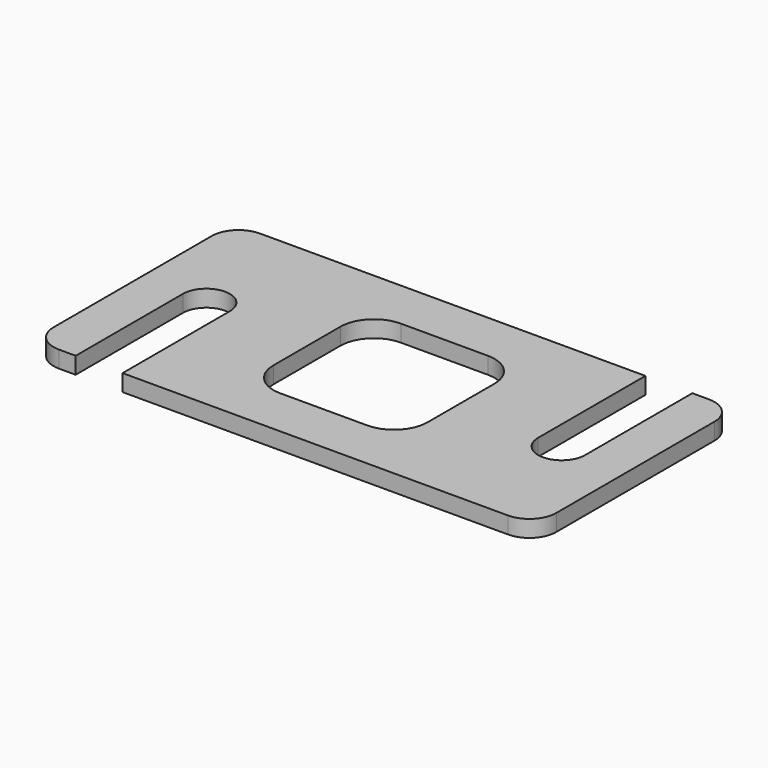
from build123d import *

# Parameters (mm, degrees)
F0_W     = 150
F0_H     = 75
F1_DEPTH = 5
F3_DEPTH = 5.001
F4_W     = 46
F4_H     = 45
F5_DEPTH = 5.001
F6_R     = 10
F7_R     = 8


with BuildPart() as f1:
    # F0 (on Top) → F1 (new body)
    with BuildSketch(Plane.XY):
        with Locations((75, 37.5)):
            Rectangle(F0_W, F0_H)
    extrude(amount=F1_DEPTH)

    # F2 (on face) → F3 (cut, through all)
    with BuildSketch(Plane.XY.offset(5)):
        with BuildLine():
            Line((13, 40), (13, 0))
            Line((13, 0), (27, 0))
            Line((27, 0), (27, 40))
            ThreePointArc((27, 40), (20, 47), (13, 40))
        make_face()
        with BuildLine():
            Line((123, 75), (123, 35))
            ThreePointArc((123, 35), (130, 28), (137, 35))
            Line((137, 35), (137, 75))
            Line((137, 75), (123, 75))
        make_face()
    extrude(amount=-F3_DEPTH, mode=Mode.SUBTRACT)

    # F4 (on face) → F5 (cut, through all)
    with BuildSketch(Plane.XY.offset(5)):
        with Locations((75, 37.5)):
            Rectangle(F4_W, F4_H)
    extrude(amount=-F5_DEPTH, mode=Mode.SUBTRACT)

    # F6
    f6_edges = [f1.edges().sort_by_distance(p)[0] for p in [
        (52, 60, 2.5),
        (98, 60, 2.5),
        (98, 15, 2.5),
        (52, 15, 2.5),
    ]]
    fillet(f6_edges, radius=F6_R)

    # F7
    f7_edges = [f1.edges().sort_by_distance(p)[0] for p in [
        (0, 75, 2.5),
        (150, 75, 2.5),
        (150, 0, 2.5),
        (0, 0, 2.5),
    ]]
    fillet(f7_edges, radius=F7_R)


solid = f1.part
